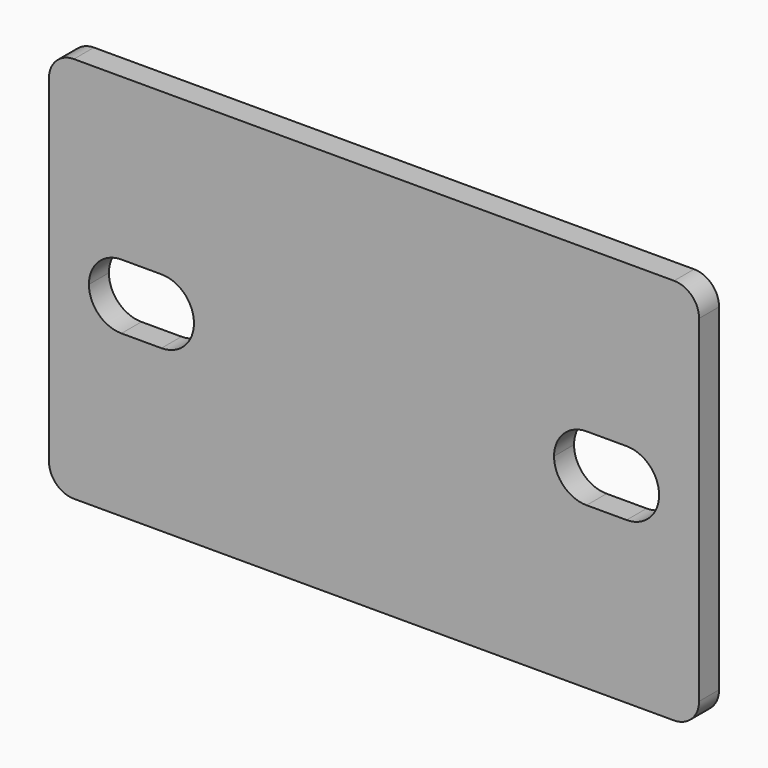
from build123d import *

# Parameters (mm, degrees)
F0_W     = 130
F0_H     = 77.4
F1_DEPTH = 5
F2_R     = 5


with BuildPart() as f1:
    # F0 (on Front) → F1 (new body)
    with BuildSketch(Plane.XZ):
        Rectangle(F0_W, F0_H)
        with BuildLine():
            ThreePointArc((-36, 0), (-37.903806, -4.596194), (-42.5, -6.5))
            Line((-42.5, -6.5), (-50.5, -6.5))
            ThreePointArc((-50.5, -6.5), (-55.096194, -4.596194), (-57, 0))
            ThreePointArc((-57, 0), (-55.096194, 4.596194), (-50.5, 6.5))
            Line((-50.5, 6.5), (-42.5, 6.5))
            ThreePointArc((-42.5, 6.5), (-37.903806, 4.596194), (-36, 0))
        make_face(mode=Mode.SUBTRACT)
        with BuildLine():
            ThreePointArc((50.5, 6.5), (55.096194, 4.596194), (57, 0))
            ThreePointArc((57, 0), (55.096194, -4.596194), (50.5, -6.5))
            Line((50.5, -6.5), (42.5, -6.5))
            ThreePointArc((42.5, -6.5), (37.903806, -4.596194), (36, 0))
            ThreePointArc((36, 0), (37.903806, 4.596194), (42.5, 6.5))
            Line((42.5, 6.5), (50.5, 6.5))
        make_face(mode=Mode.SUBTRACT)
    extrude(amount=F1_DEPTH)

    # F2
    f2_edges = [f1.edges().sort_by_distance(p)[0] for p in [
        (65, -2.5, 38.7),
        (65, -2.5, -38.7),
        (-65, -2.5, -38.7),
        (-65, -2.5, 38.7),
    ]]
    fillet(f2_edges, radius=F2_R)


solid = f1.part
